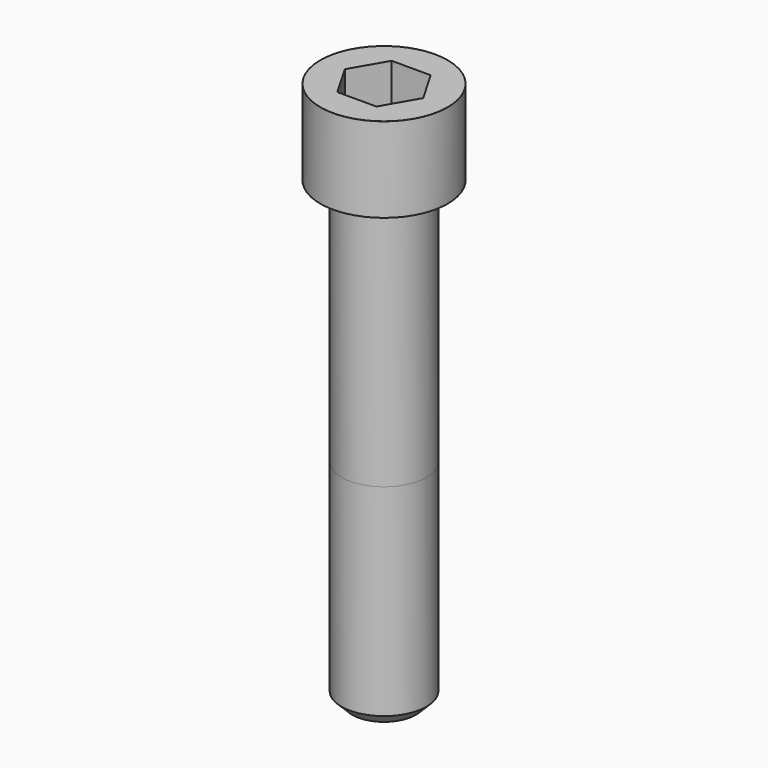
from build123d import *

# Parameters (mm, degrees)
POCKET_DEPTH = 19.15


with BuildPart() as part:
    # Sketch → Revolve (revolve)
    with BuildSketch(Plane.YZ):
        with BuildLine():
            Line((11.999, 0), (18, 0))
            Line((18, 0), (18, 23.97229))
            ThreePointArc((18, 23.97229), (17.991884, 23.991884), (17.97229, 24))
            Line((17.97229, 24), (0, 24))
            Line((0, -130), (0, 24))
            Line((9, -130), (0, -130))
            Line((12, -127), (9, -130))
            Line((12, -70), (12, -127))
            Line((11.999, 0), (12, -70))
        make_face()
    revolve(axis=Axis((0, 0, 0), (0, 0, 1)))

    # Sketch001 → Pocket (cut)
    with BuildSketch(Plane.XY.offset(24)):
        Polygon((11.056258, 0), (5.528129, 9.575), (-5.528129, 9.575), (-11.056258, 0), (-5.528129, -9.575), (5.528129, -9.575), align=None)
    extrude(amount=-POCKET_DEPTH, mode=Mode.SUBTRACT)


solid = part.part
